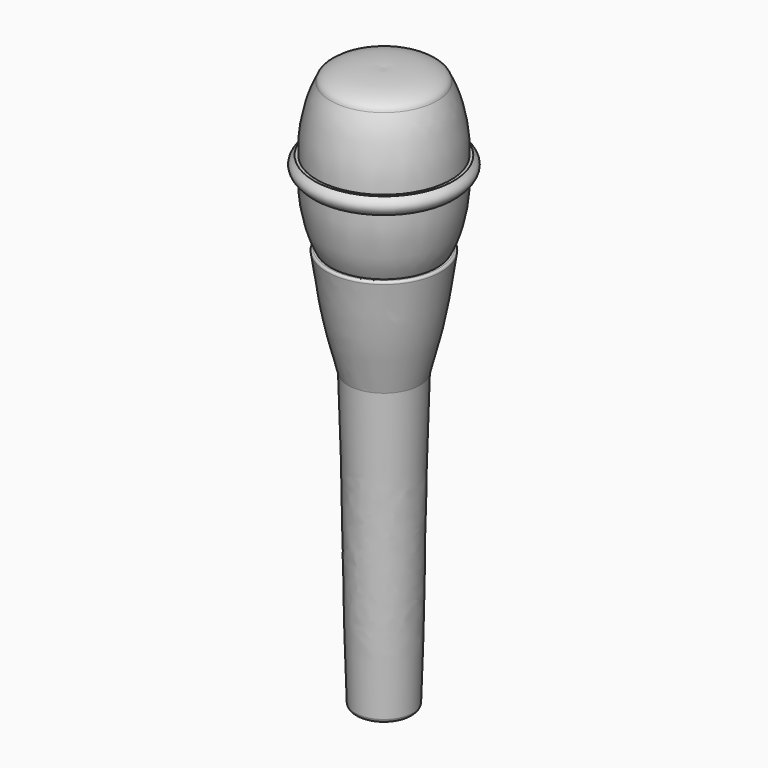
from build123d import *


with BuildPart() as f1:
    # F0 (on Front) → F1 (revolve)
    with BuildSketch(Plane.XZ):
        with BuildLine():
            add(Edge.make_bspline(
                [(-7.742904, 3.502742), (-11.06129, 16.223226), (-10.446775, 14.133872), (-12.351775, 26.547099)],
                knots=[0, 0, 0, 0, 23.500725, 23.500725, 23.500725, 23.500725], degree=3))
            add(Edge.make_bspline(
                [(-7.742904, 3.502742), (-6.944033, -17.329355), (-7.066936, -38.345808), (-6.268064, -59.177905)],
                knots=[0, 0, 0, 0, 62.697996, 62.697996, 62.697996, 62.697996], degree=3))
            ThreePointArc((-6.268064, -59.177905), (-5.851506, -59.843555), (-5.110484, -60.103357))
            Line((-5.110484, -60.103357), (0, -60.103357))
            Line((0, -60.103357), (0, 61.336529))
            add(Edge.make_bspline(
                [(-11.491333, 58.735296), (-11.114754, 60.875643), (-4.754512, 61.705239), (0, 61.336529)],
                knots=[0, 0, 0, 0, 11.782069, 11.782069, 11.782069, 11.782069], degree=3))
            add(Edge.make_bspline(
                [(-14.438317, 44.695105), (-14.712363, 49.244255), (-13.451756, 55.096667), (-11.491333, 58.735296)],
                knots=[0, 0, 0, 0, 14.346138, 14.346138, 14.346138, 14.346138], degree=3))
            Line((-14.438317, 44.695105), (-15.052083, 44.695105))
            add(Edge.make_bspline(
                [(-15.052083, 44.695105), (-16.765285, 43.291789), (-16.2446, 42.178938), (-15.052083, 41.134315)],
                knots=[0, 0, 0, 0, 3.560791, 3.560791, 3.560791, 3.560791], degree=3))
            Line((-15.052083, 41.134315), (-14.438317, 41.134315))
            add(Edge.make_bspline(
                [(-14.438317, 41.134315), (-14.712363, 36.585165), (-13.451756, 30.732753), (-11.491333, 27.094124)],
                knots=[0, 0, 0, 0, 14.346138, 14.346138, 14.346138, 14.346138], degree=3))
            Line((-11.491333, 27.094124), (-11.95222, 27.094124))
            ThreePointArc((-11.95222, 27.094124), (-12.264926, 26.903096), (-12.351775, 26.547099))
        make_face()
    revolve(axis=Axis((0, 0, 0.616586), (0, 0, -1)))


solid = f1.part
